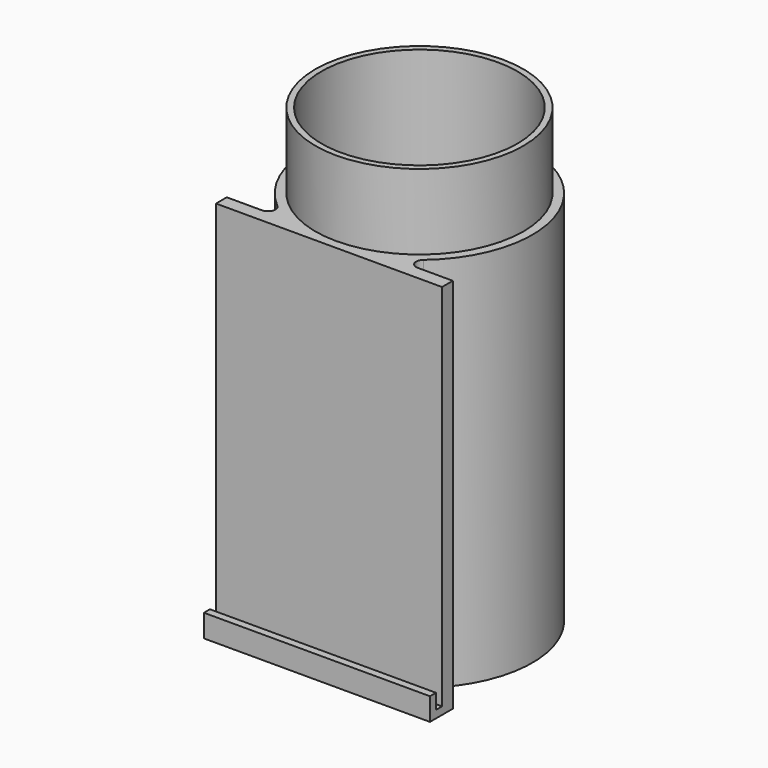
from build123d import *

# Parameters (mm, degrees)
F1_DEPTH = 127
F2_R     = 33.02
F3_DEPTH = 121.92
F2_R_2   = 35.052
F4_DEPTH = 25.4
F5_R     = 2.54
F6_W     = 76.2
F6_H     = 2.54
F7_DEPTH = 5.08
F8_W     = 76.2
F8_H     = 2.54
F9_DEPTH = 5.08


with BuildPart() as f1:
    # F0 (on Top) → F1 (new body)
    with BuildSketch(Plane.XY):
        with BuildLine():
            Line((38.1, -33.553976), (18.048288, -33.553976))
            ThreePointArc((18.048288, -33.553976), (0, 38.1), (-18.048288, -33.553976))
            Line((-18.048288, -33.553976), (-38.1, -33.553976))
            Line((-38.1, -33.553976), (-38.1, -38.1))
            Line((-38.1, -38.1), (38.1, -38.1))
            Line((38.1, -38.1), (38.1, -33.553976))
        make_face()
    extrude(amount=F1_DEPTH)

    # F2 (on face) → F3 (cut)
    with BuildSketch(Plane.XY.offset(127)):
        Circle(F2_R)
    extrude(amount=-F3_DEPTH, mode=Mode.SUBTRACT)

    # F2 (on face) → F4 (join)
    with BuildSketch(Plane.XY.offset(127)):
        Circle(F2_R_2)
        Circle(F2_R, mode=Mode.SUBTRACT)
    extrude(amount=F4_DEPTH)

    # F5
    f5_edges = [f1.edges().sort_by_distance(p)[0] for p in [
        (18.048288, -33.553976, 63.5),
        (-18.048288, -33.553976, 63.5),
    ]]
    fillet(f5_edges, radius=F5_R)

    # F6 (on face) → F7 (join)
    with BuildSketch(Plane.XZ.offset(38.1)):
        with Locations((0, 1.27)):
            Rectangle(F6_W, F6_H)
    extrude(amount=F7_DEPTH)

    # F8 (on face) → F9 (join)
    with BuildSketch(Plane.XY.offset(2.54)):
        with Locations((0, -41.91)):
            Rectangle(F8_W, F8_H)
    extrude(amount=F9_DEPTH)


solid = f1.part
